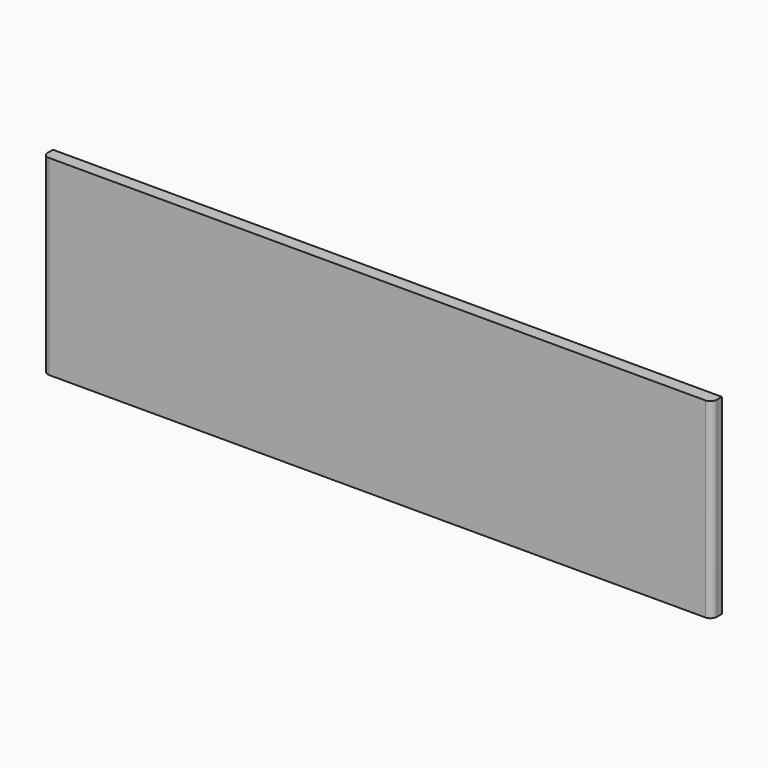
from build123d import *

# Parameters (mm, degrees)
SKETCH002_W  = 105
SKETCH002_H  = 30
PAD001_DEPTH = 2
FILLET002_R  = 1
FILLET003_R  = 1


with BuildPart() as part:
    # Sketch002 → Pad001 (new body)
    with BuildSketch(Plane.XZ):
        with Locations((0, 15)):
            Rectangle(SKETCH002_W, SKETCH002_H)
    extrude(amount=PAD001_DEPTH)

    # Fillet002
    fillet002_edges = [part.edges().sort_by_distance(p)[0] for p in [
        (-52.5, -2, 15),
    ]]
    fillet(fillet002_edges, radius=FILLET002_R)

    # Fillet003
    fillet003_edges = [part.edges().sort_by_distance(p)[0] for p in [
        (52.5, -2, 15),
    ]]
    fillet(fillet003_edges, radius=FILLET003_R)


with BuildPart() as part_1:
    # Body001 placement: moved
    add(part.part.moved(Location((0, -30.5, 0))))


solid = part_1.part
